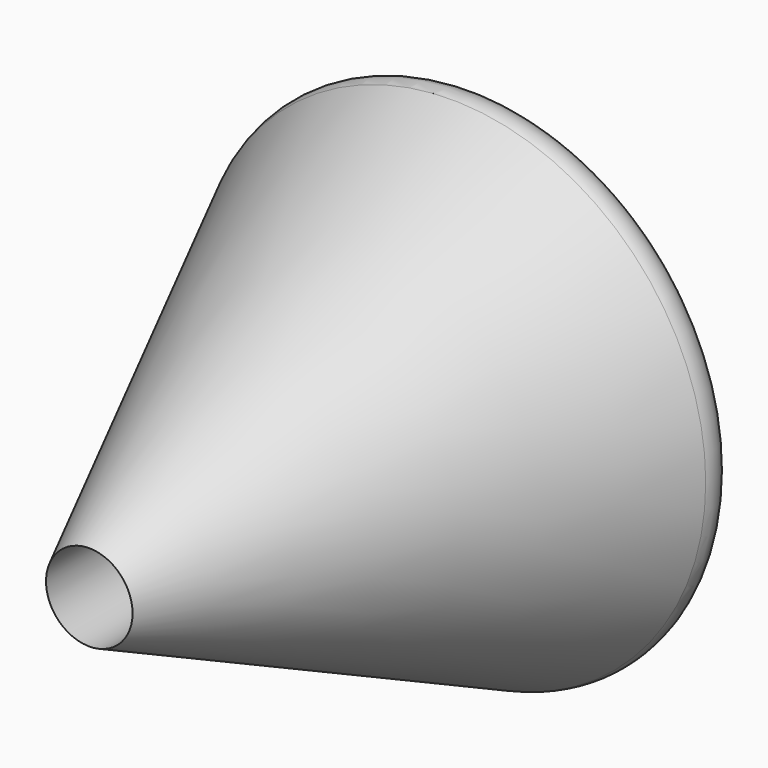
from build123d import *

# Parameters (mm, degrees)
F0_R     = 50.8
F1_DEPTH = 91.44
F1_TAPER = 25
F2_R     = 38.1
F3_DEPTH = 25.4
F4_R     = 4.2924717139
F5_SIZE  = 17.78
F6_DEPTH = 106.172
F7_SIZE  = 11.938


with BuildPart() as f1:
    # F0 (on Front) → F1 (new body)
    with BuildSketch(Plane.XZ):
        Circle(F0_R)
    extrude(amount=F1_DEPTH, taper=F1_TAPER)

    # F2 (on face) → F3 (cut)
    with BuildSketch(Plane(origin=(0, 0, 0), x_dir=(-1, 0, 0), z_dir=(0, 1, 0))):
        Circle(F2_R)
    extrude(amount=-F3_DEPTH, mode=Mode.SUBTRACT)

    # F4
    f4_edges = [f1.edges().sort_by_distance(p)[0] for p in [
        (-50.8, 0, 0),
        (38.1, 0, 0),
    ]]
    fillet(f4_edges, radius=F4_R)

    # F5
    f5_edges = [f1.edges().sort_by_distance(p)[0] for p in [
        (38.1, -4.292472, 0),
        (38.1, -25.4, 0),
    ]]
    chamfer(f5_edges, length=F5_SIZE)

    # F6 (cut): a face of the model
    f6_faces = [f1.faces().sort_by_distance(p)[0] for p in [
        (0, -91.44, 0),
    ]]
    extrude(f6_faces, amount=-F6_DEPTH, mode=Mode.SUBTRACT)

    # F7
    f7_edges = [f1.edges().sort_by_distance(p)[0] for p in [
        (-8.160828, -25.4, 0),
    ]]
    chamfer(f7_edges, length=F7_SIZE)


solid = f1.part
